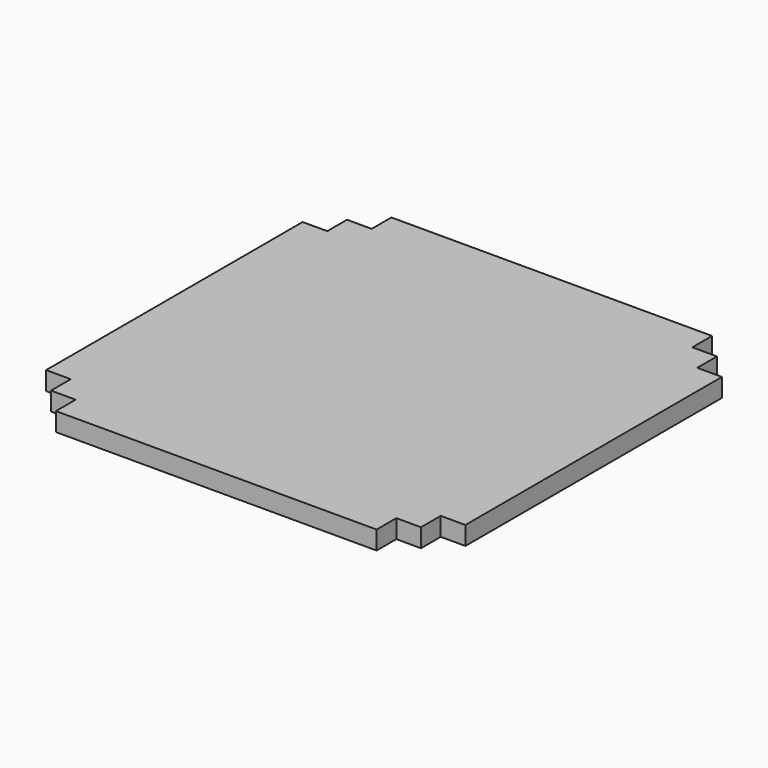
from build123d import *

# Parameters (mm, degrees)
F1_DEPTH = 19.05


with BuildPart() as f1:
    # F0 (on Top) → F1 (new body)
    with BuildSketch(Plane.XY):
        Polygon((-23.859296, 109.534019), (-49.259296, 109.534019), (-49.259296, -220.665981), (-23.859296, -220.665981), (-23.859296, -246.065981), (1.540704, -246.065981), (1.540704, -271.465981), (331.740704, -271.465981), (331.740704, -246.065981), (357.140704, -246.065981), (357.140704, -220.665981), (382.540704, -220.665981), (382.540704, 109.534019), (357.140704, 109.534019), (357.140704, 134.934019), (331.740704, 134.934019), (331.740704, 160.334019), (1.540704, 160.334019), (1.540704, 134.934019), (-23.859296, 134.934019), align=None)
    extrude(amount=F1_DEPTH)


solid = f1.part
